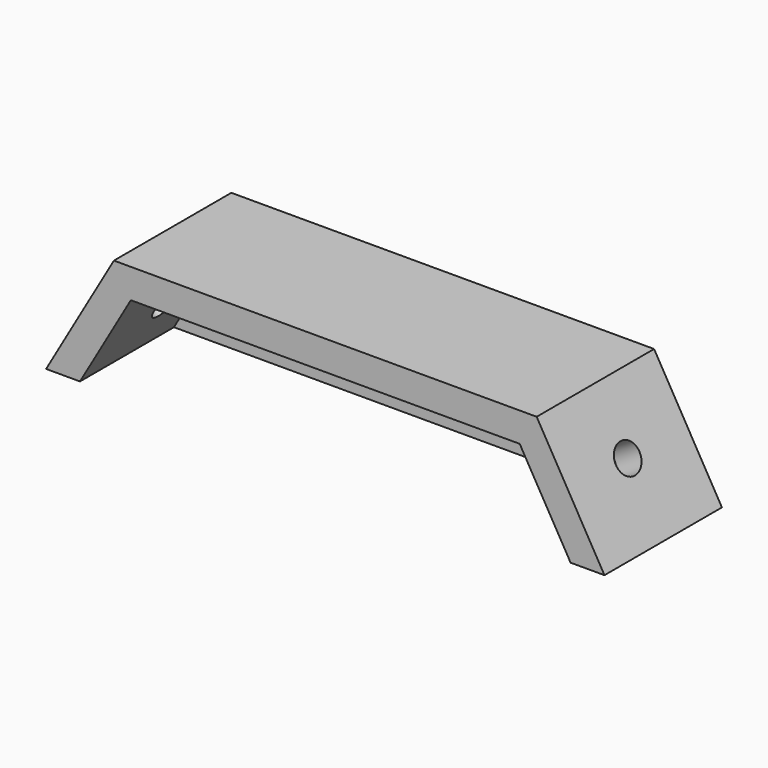
from build123d import *

# Parameters (mm, degrees)
F1_DEPTH = 5
F3_DEPTH = 20
F5_D     = 5.5
F7_D     = 5
F9_D     = 5


with BuildPart() as f1:
    # F0 (on Front) → F1 (new body)
    with BuildSketch(Plane.XZ):
        Polygon((36, 0), (0, 0), (-36, 0), (-47.5470053838, -20), (0, -20), (47.5470053838, -20), align=None)
    extrude(amount=F1_DEPTH)

    # F2 (on face) → F3 (join)
    with BuildSketch(Plane.XZ.offset(5)):
        Polygon((-30.2264973081, 0), (-36, 0), (-47.5470053838, -20), (-41.7735026919, -20), (-33.1132486541, -5), align=None)
        Polygon((30.2264973081, 0), (-30.2264973081, 0), (-33.1132486541, -5), (33.1132486541, -5), align=None)
        Polygon((36, 0), (30.2264973081, 0), (33.1132486541, -5), (41.7735026919, -20), (47.5470053838, -20), align=None)
    extrude(amount=F3_DEPTH)

    # F5 (through all)
    with Locations(Plane.XZ.offset(5)):
        with Locations((0, -13.6782340705)):
            Hole(F5_D / 2)

    # F7 (through all)
    with Locations(Plane(origin=(27, 0, 15.5884572681), x_dir=(0, 1, 0), z_dir=(0.8660254038, 0, 0.5))):
        with Locations((-12.5, -29)):
            Hole(F7_D / 2)

    # F9 (through all)
    with Locations(Plane(origin=(-27, 0, 15.5884572681), x_dir=(0, -1, 0), z_dir=(-0.8660254038, 0, 0.5))):
        with Locations((12.5, -29)):
            Hole(F9_D / 2)


solid = f1.part
